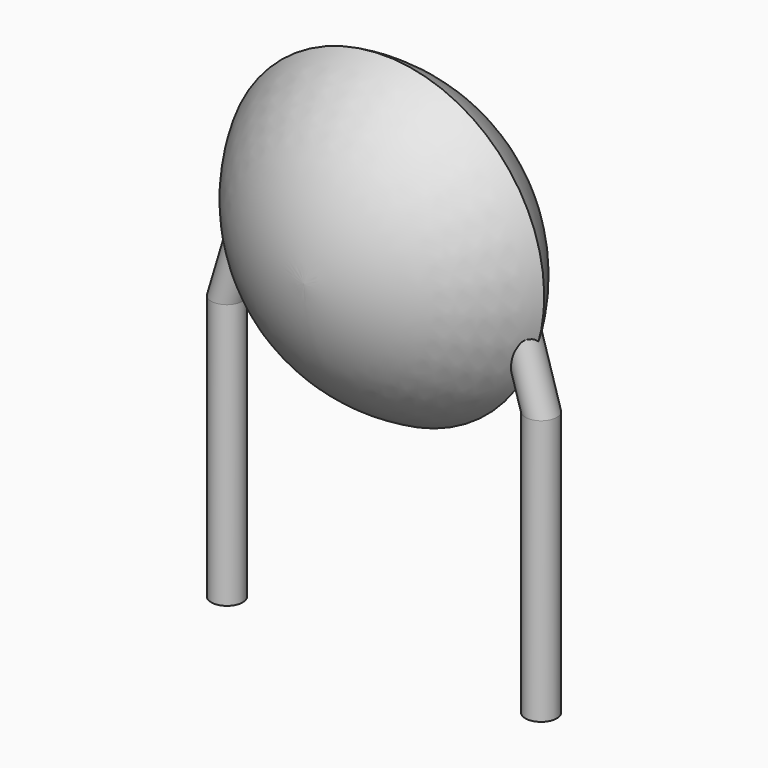
from build123d import *

# Parameters (mm, degrees)
SKETCH001_R       = 0.25
PAD001_DEPTH      = 1.02
PAD001_DEPTH_BACK = 3.2
SKETCH002_R       = 0.25
SKETCH003_R       = 0.25
SKETCH004_R       = 0.25
SKETCH005_R       = 0.25


with BuildPart() as pad001:
    # Sketch001 → Pad001 (new body, two sides)
    with BuildSketch(Plane.XY) as pad001_sk:
        Circle(SKETCH001_R)
        with Locations((5, 0)):
            Circle(SKETCH001_R)
    extrude(amount=PAD001_DEPTH)
    extrude(pad001_sk.sketch, amount=-PAD001_DEPTH_BACK)


with BuildPart() as revolution:
    # Sketch → Revolution (revolve)
    with BuildSketch(Plane.YZ.offset(2.5)):
        with BuildLine():
            Line((-1.6, 2.65), (1.6, 2.65))
            ThreePointArc((0, 0.1), (1.14349, 1.159477), (1.6, 2.65))
            ThreePointArc((-1.6, 2.65), (-1.14349, 1.159477), (0, 0.1))
        make_face()
    revolve(axis=Axis((2.5, -3.32079, 2.65), (0, 1, 0)))


with BuildPart() as loft_body:
    # Sketch002 → Loft section 0
    with BuildSketch(Plane.XY.offset(2.55)):
        with Locations((0.46, 0)):
            Circle(SKETCH002_R)
    # Sketch003 → Loft section 1
    with BuildSketch(Plane.XY.offset(1.02)):
        Circle(SKETCH003_R)
    loft()


with BuildPart() as loft001:
    # Sketch004 → Loft001 section 0
    with BuildSketch(Plane.XY.offset(1.02)):
        with Locations((5, 0)):
            Circle(SKETCH004_R)
    # Sketch005 → Loft001 section 1
    with BuildSketch(Plane.XY.offset(2.55)):
        with Locations((4.54, 0)):
            Circle(SKETCH005_R)
    loft()


solid = Compound([pad001.part, revolution.part, loft_body.part, loft001.part])
